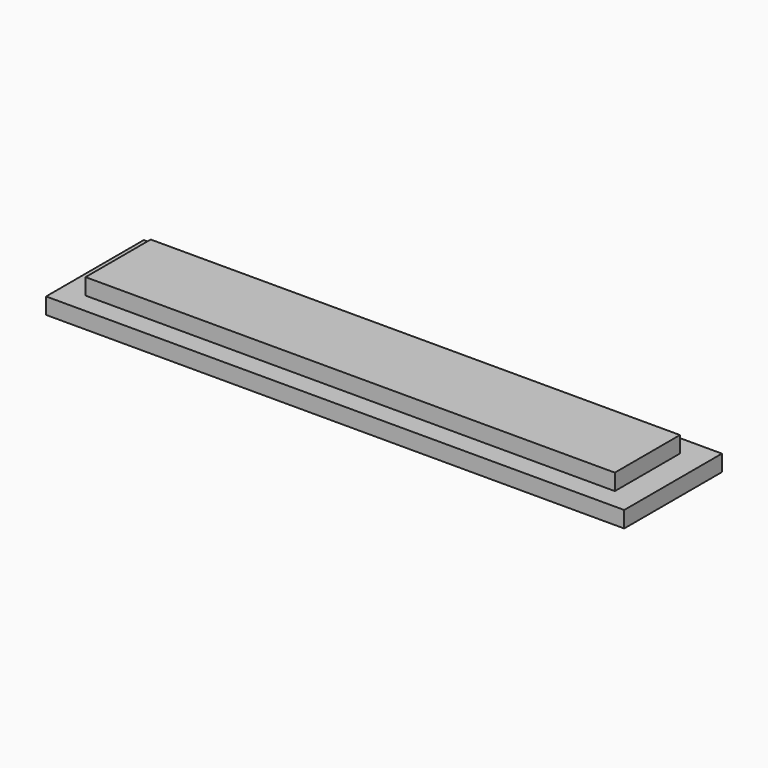
from build123d import *

# Parameters (mm, degrees)
SKETCH_W     = 71
SKETCH_H     = 15
PAD_DEPTH    = 2
CHAMFER_SIZE = 1
PAD001_DEPTH = 30
SKETCH002_W  = 10
SKETCH002_H  = 65
PAD002_DEPTH = 2
PAD003_DEPTH = 2.25


with BuildPart() as test_piece:
    # Sketch → Pad (new body)
    with BuildSketch(Plane.XY):
        with Locations((30.5, 0)):
            Rectangle(SKETCH_W, SKETCH_H)
        Polygon((0, 2.5), (30, 2.5), (31, 1.5), (61, 1.5), (61, -1.5), (31, -1.5), (30, -2.5), (0, -2.5), align=None, mode=Mode.SUBTRACT)
    extrude(amount=PAD_DEPTH)

    # Chamfer
    chamfer_edges = [test_piece.edges().sort_by_distance(p)[0] for p in [
        (46, -1.5, 0),
        (46, 1.5, 0),
    ]]
    chamfer(chamfer_edges, length=CHAMFER_SIZE)


with BuildPart() as body001:
    # Sketch001 (on DatumPlane) → Pad001 (new body)
    with BuildSketch(Plane.YZ.offset(31)):
        Polygon((-1, 2), (1, 2), (1, 1.25), (2.25, 0), (-2.25, 0), (-1, 1.25), align=None)
    extrude(amount=PAD001_DEPTH)

    # Sketch002 (on DatumPlane) → Pad002 (join)
    with BuildSketch(Plane(origin=(31, 0, 2), x_dir=(0, -1, 0), z_dir=(0, 0, 1))):
        with Locations((0, -0.65176)):
            Rectangle(SKETCH002_W, SKETCH002_H)
    extrude(amount=PAD002_DEPTH)

    # Sketch003 (on DatumPlane) → Pad003 (join, symmetric)
    with BuildSketch(Plane.XZ):
        Polygon((0, 2), (0, 0), (1, 0), (4.464102, 2), align=None)
    extrude(amount=PAD003_DEPTH, both=True)


solid = Compound([test_piece.part, body001.part])
